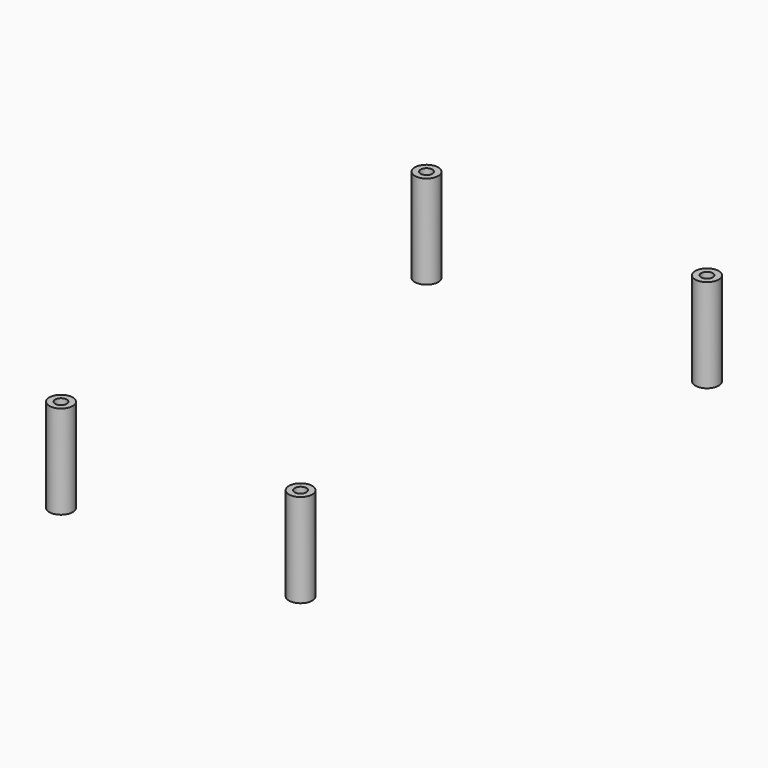
from build123d import *

# Parameters (mm, degrees)
CYLINDER214_R     = 2
CYLINDER214_DEPTH = 42
CYLINDER016_R     = 4
CYLINDER016_DEPTH = 32
CYLINDER213_R     = 2
CYLINDER213_DEPTH = 37
CYLINDER011_R     = 4
CYLINDER011_DEPTH = 32
CYLINDER230_R     = 2
CYLINDER230_DEPTH = 42
CYLINDER007_R     = 4
CYLINDER007_DEPTH = 32
CYLINDER012_R     = 2
CYLINDER012_DEPTH = 42
CYLINDER225_R     = 4
CYLINDER225_DEPTH = 32


with BuildPart() as cylinder214:
    # Cylinder214 → Cylinder214 (new body)
    with BuildSketch(Plane(origin=(-83, -98, -5), x_dir=(1, 0, 0), z_dir=(0, 0, 1))):
        Circle(CYLINDER214_R)
    extrude(amount=CYLINDER214_DEPTH)


with BuildPart() as cut182:
    # Cylinder016 → Cylinder016 (new body)
    with BuildSketch(Plane(origin=(-83, -98, 0), x_dir=(1, 0, 0), z_dir=(0, 0, 1))):
        Circle(CYLINDER016_R)
    extrude(amount=CYLINDER016_DEPTH)

    # Cut182: cut Cylinder214
    add(cylinder214.part, mode=Mode.SUBTRACT)


with BuildPart() as cut182_1:
    # Cut182 placement: moved
    add(cut182.part.moved(Location((8, 0, 0))))


with BuildPart() as cylinder213:
    # Cylinder213 → Cylinder213 (new body)
    with BuildSketch(Plane(origin=(15.2, -98, 0), x_dir=(1, 0, 0), z_dir=(0, 0, 1))):
        Circle(CYLINDER213_R)
    extrude(amount=CYLINDER213_DEPTH)


with BuildPart() as fusion325:
    # Cylinder011 → Cylinder011 (new body)
    with BuildSketch(Plane(origin=(15.2, -98, 0), x_dir=(1, 0, 0), z_dir=(0, 0, 1))):
        Circle(CYLINDER011_R)
    extrude(amount=CYLINDER011_DEPTH)

    # Cut177: cut Cylinder213
    add(cylinder213.part, mode=Mode.SUBTRACT)


with BuildPart() as fusion325_1:
    # Cut177 placement: moved
    add(fusion325.part.moved(Location((-8.2, 0, 0))))

    # Fusion325: union Cut182
    add(cut182_1.part)


with BuildPart() as cylinder230:
    # Cylinder230 → Cylinder230 (new body)
    with BuildSketch(Plane(origin=(0, 82, -5), x_dir=(1, 0, 0), z_dir=(0, 0, 1))):
        Circle(CYLINDER230_R)
    extrude(amount=CYLINDER230_DEPTH)


with BuildPart() as cut196:
    # Cylinder007 → Cylinder007 (new body)
    with BuildSketch(Plane(origin=(0, 82, 0), x_dir=(1, 0, 0), z_dir=(0, 0, 1))):
        Circle(CYLINDER007_R)
    extrude(amount=CYLINDER007_DEPTH)

    # Cut196: cut Cylinder230
    add(cylinder230.part, mode=Mode.SUBTRACT)


with BuildPart() as cut196_1:
    # Cut196 placement: moved
    add(cut196.part.moved(Location((14.1, -10, 0))))


with BuildPart() as cylinder012:
    # Cylinder012 → Cylinder012 (new body)
    with BuildSketch(Plane(origin=(-68, 82, -5), x_dir=(1, 0, 0), z_dir=(0, 0, 1))):
        Circle(CYLINDER012_R)
    extrude(amount=CYLINDER012_DEPTH)


with BuildPart() as fusion326:
    # Cylinder225 → Cylinder225 (new body)
    with BuildSketch(Plane(origin=(-68, 82, 0), x_dir=(1, 0, 0), z_dir=(0, 0, 1))):
        Circle(CYLINDER225_R)
    extrude(amount=CYLINDER225_DEPTH)

    # Cut191: cut Cylinder012
    add(cylinder012.part, mode=Mode.SUBTRACT)


with BuildPart() as fusion326_1:
    # Cut191 placement: moved
    add(fusion326.part.moved(Location((-13.9, -10, 0))))

    # Fusion319: union Cut196
    add(cut196_1.part)


with BuildPart() as fusion326_2:
    # Fusion319 placement: moved
    add(fusion326_1.part.moved(Location((0, -5, 0))))

    # Fusion326: union Fusion325
    add(fusion325_1.part)


solid = fusion326_2.part
